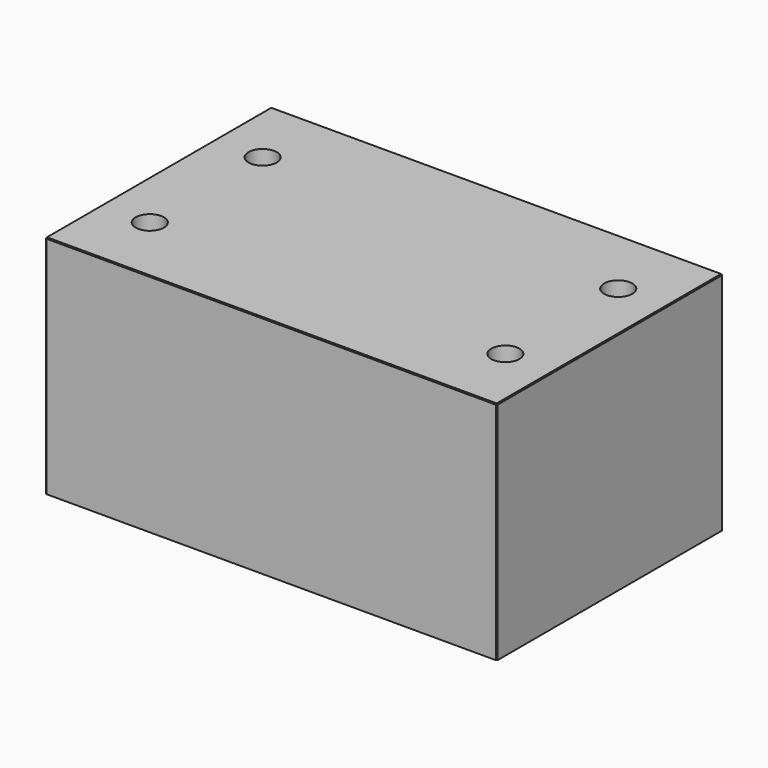
from build123d import *

# Parameters (mm, degrees)
F0_W     = 101.6
F0_H     = 63.5
F0_R     = 3.175
F1_DEPTH = 50.8
F2_SIZE  = 0.2032


with BuildPart() as f1:
    # F0 (on Top) → F1 (new body)
    with BuildSketch(Plane.XY):
        with Locations((50.8, 31.75)):
            Rectangle(F0_W, F0_H)
        with Locations((10.795, 15.875)):
            Circle(F0_R, mode=Mode.SUBTRACT)
        with Locations((90.805, 15.875)):
            Circle(F0_R, mode=Mode.SUBTRACT)
        with Locations((10.795, 47.625)):
            Circle(F0_R, mode=Mode.SUBTRACT)
        with Locations((90.805, 47.625)):
            Circle(F0_R, mode=Mode.SUBTRACT)
    extrude(amount=F1_DEPTH)

    # F2
    f2_edges = [f1.edges().sort_by_distance(p)[0] for p in [
        (0, 31.75, 50.8),
        (50.8, 0, 50.8),
        (50.8, 63.5, 50.8),
        (101.6, 31.75, 50.8),
        (101.6, 0, 25.4),
        (101.6, 63.5, 25.4),
        (0, 0, 25.4),
        (0, 63.5, 25.4),
    ]]
    chamfer(f2_edges, length=F2_SIZE)


solid = f1.part
